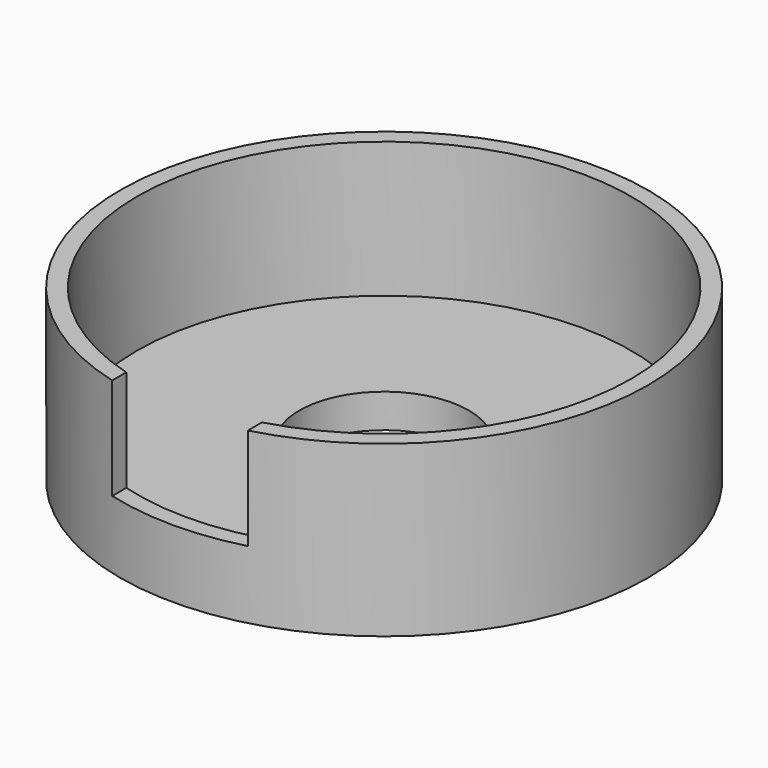
from build123d import *

# Parameters (mm, degrees)
F0_R     = 23.35
F0_R_2   = 21.85
F1_DEPTH = 15
F2_DEPTH = 3
F3_R     = 7.5
F4_DEPTH = 25.4
F6_W     = 12
F6_H     = 6.807694
F7_DEPTH = 9


with BuildPart() as f1:
    # F0 (on Top) → F1 (new body)
    with BuildSketch(Plane.XY):
        Circle(F0_R)
        Circle(F0_R_2, mode=Mode.SUBTRACT)
    extrude(amount=F1_DEPTH)

    # F0 (on Top) → F2 (join)
    with BuildSketch(Plane.XY):
        Circle(F0_R_2)
    extrude(amount=F2_DEPTH)

    # F3 (on Top) → F4 (cut)
    with BuildSketch(Plane.XY):
        Circle(F3_R)
    extrude(amount=F4_DEPTH, mode=Mode.SUBTRACT)

    # F6 (on offset) → F7 (cut)
    with BuildSketch(Plane.XY.offset(15)):
        with Locations((0, -22.193914)):
            Rectangle(F6_W, F6_H)
    extrude(amount=-F7_DEPTH, mode=Mode.SUBTRACT)


solid = f1.part
